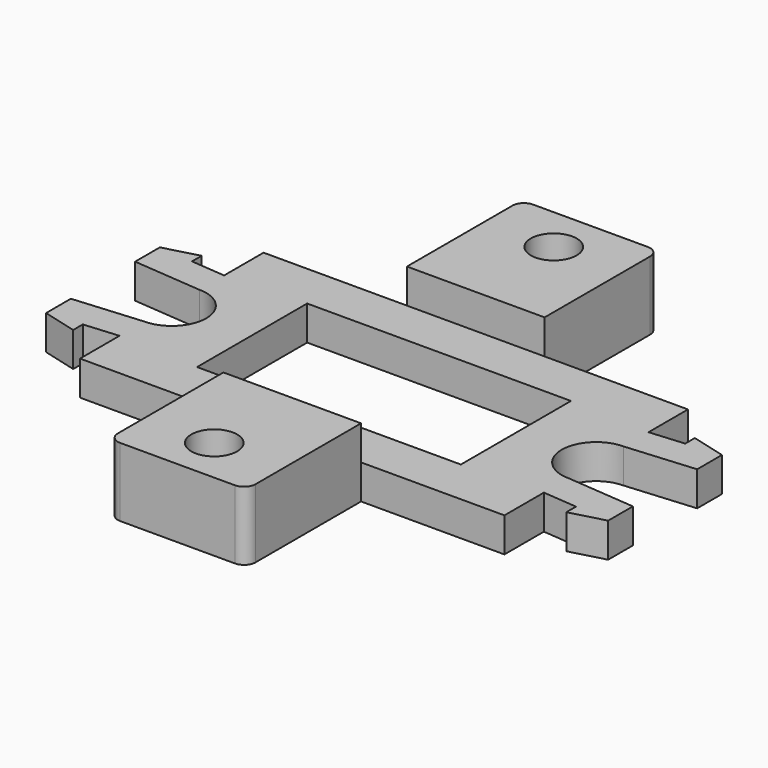
from build123d import *

# Parameters (mm, degrees)
F0_W     = 23
F0_H     = 12
F1_DEPTH = 3
F2_R     = 2
F3_DEPTH = 6


with BuildPart() as f1:
    # F0 (on Top) → F1 (new body)
    with BuildSketch(Plane.XY):
        with BuildLine():
            Line((18.5, 7), (18.5, 10))
            Line((18.5, 10), (-18.5, 10))
            Line((-18.5, 10), (-18.5, 7))
            Line((-18.5, 7), (-18.5, 5.7))
            Line((-18.5, 5.7), (-21.5, 5.95))
            Line((-21.5, 5.95), (-21.5, 7))
            Line((-21.5, 7), (-24.5, 6.2))
            Line((-24.5, 6.2), (-24.5, 3.5))
            Line((-24.5, 3.5), (-18.5, 3))
            ThreePointArc((-18.5, 3), (-15.5, 0), (-18.5, -3))
            Line((-18.5, -3), (-24.5, -3.5))
            Line((-24.5, -3.5), (-24.5, -6.2))
            Line((-24.5, -6.2), (-21.5, -7))
            Line((-21.5, -7), (-21.5, -5.95))
            Line((-21.5, -5.95), (-18.5, -5.7))
            Line((-18.5, -5.7), (-18.5, -7))
            Line((-18.5, -7), (-18.5, -10))
            Line((-18.5, -10), (18.5, -10))
            Line((18.5, -10), (18.5, -7))
            Line((18.5, -7), (18.5, -5.7))
            Line((18.5, -5.7), (21.5, -5.95))
            Line((21.5, -5.95), (21.5, -7))
            Line((21.5, -7), (24.5, -6.2))
            Line((24.5, -6.2), (24.5, -3.5))
            Line((24.5, -3.5), (18.5, -3))
            ThreePointArc((18.5, -3), (15.5, 0), (18.5, 3))
            Line((18.5, 3), (24.5, 3.5))
            Line((24.5, 3.5), (24.5, 6.2))
            Line((24.5, 6.2), (21.5, 7))
            Line((21.5, 7), (21.5, 5.95))
            Line((21.5, 5.95), (18.5, 5.7))
            Line((18.5, 5.7), (18.5, 7))
        make_face()
        Rectangle(F0_W, F0_H, mode=Mode.SUBTRACT)
    extrude(amount=F1_DEPTH)

    # F2 (on Top) → F3 (join)
    with BuildSketch(Plane.XY):
        with BuildLine():
            Line((-6, 10), (6, 10))
            Line((6, 10), (6, 21.5))
            ThreePointArc((6, 21.5), (5.707107, 22.207107), (5, 22.5))
            Line((5, 22.5), (-5, 22.5))
            ThreePointArc((-5, 22.5), (-5.707107, 22.207107), (-6, 21.5))
            Line((-6, 21.5), (-6, 10))
        make_face()
        with Locations((0, 18.5)):
            Circle(F2_R, mode=Mode.SUBTRACT)
        with BuildLine():
            Line((6, -21.5), (6, -10))
            Line((6, -10), (-6, -10))
            Line((-6, -10), (-6, -21.5))
            ThreePointArc((-6, -21.5), (-5.707107, -22.207107), (-5, -22.5))
            Line((-5, -22.5), (5, -22.5))
            ThreePointArc((5, -22.5), (5.707107, -22.207107), (6, -21.5))
        make_face()
        with Locations((0, -18.5)):
            Circle(F2_R, mode=Mode.SUBTRACT)
    extrude(amount=F3_DEPTH)


solid = f1.part
